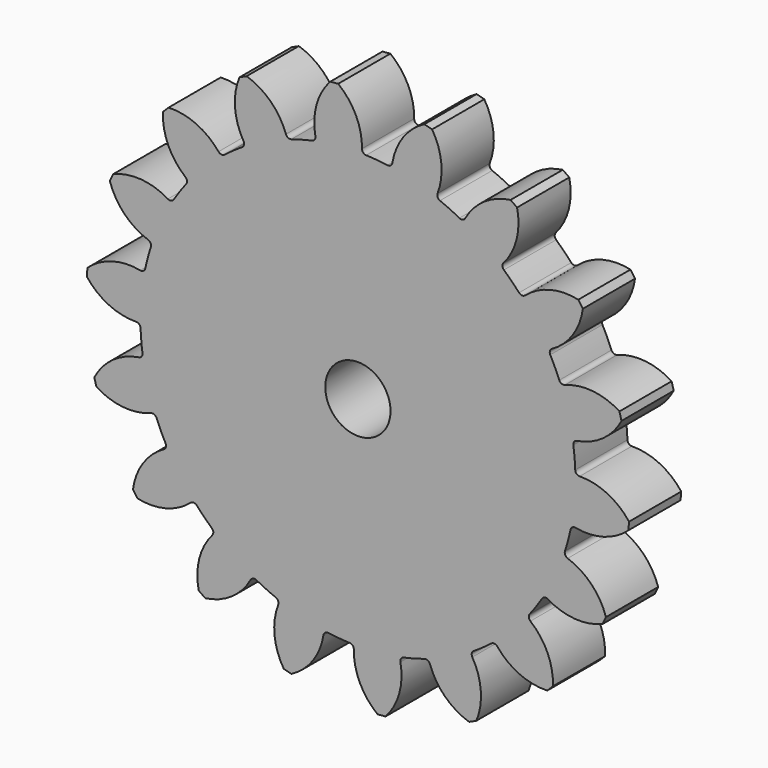
from build123d import *

# Parameters (mm, degrees)
F1_DEPTH = 3
F2_R     = 0.2
F3_COUNT = 18
F5_R     = 1.5
F6_DEPTH = 3.0010001


with BuildPart() as f1:
    # F0 (on Front) → F1 (new body)
    with BuildSketch(Plane.XZ):
        with BuildLine():
            ThreePointArc((-1.9113205495, 9.8156433186), (-6.3595123439, -7.7172924493), (10, 0))
            ThreePointArc((10, 0), (7.1336577997, 7.0079188349), (0.1778147207, 9.9984189713))
            ThreePointArc((0.1778147207, 9.9984189713), (-0.8715574275, 9.9619469809), (-1.9113205495, 9.8156433186))
        make_face()
        with BuildLine():
            ThreePointArc((-1.9113205495, 9.8156433186), (-0.8715574275, 9.9619469809), (0.1778147207, 9.9984189713))
            ThreePointArc((0.1778147207, 9.9984189713), (-0.0499038808, 11.371106639), (-0.907270256, 12.467030949))
            Line((-0.907270256, 12.467030949), (-1.271390423, 12.4351745622))
            ThreePointArc((-1.271390423, 12.4351745622), (-1.9254262172, 11.2070196964), (-1.9113205495, 9.8156433186))
        make_face()
    extrude(amount=F1_DEPTH)

    # F2
    f2_edges = [f1.edges().sort_by_distance(p)[0] for p in [
        (0.177815, -1.5, 9.998419),
        (-1.911321, -1.5, 9.815643),
    ]]
    fillet(f2_edges, radius=F2_R)


with BuildPart() as f3_1:
    # F3: instance of F1
    add(f1.part.rotate(Axis((0, 0, 0), (0, 1, 0)), 1 * 360 / F3_COUNT))


with BuildPart() as f3_2:
    # F3: instance of F1
    add(f1.part.rotate(Axis((0, 0, 0), (0, 1, 0)), 2 * 360 / F3_COUNT))


with BuildPart() as f3_3:
    # F3: instance of F1
    add(f1.part.rotate(Axis((0, 0, 0), (0, 1, 0)), 3 * 360 / F3_COUNT))


with BuildPart() as f3_4:
    # F3: instance of F1
    add(f1.part.rotate(Axis((0, 0, 0), (0, 1, 0)), 4 * 360 / F3_COUNT))


with BuildPart() as f3_5:
    # F3: instance of F1
    add(f1.part.rotate(Axis((0, 0, 0), (0, 1, 0)), 5 * 360 / F3_COUNT))


with BuildPart() as f3_6:
    # F3: instance of F1
    add(f1.part.rotate(Axis((0, 0, 0), (0, 1, 0)), 6 * 360 / F3_COUNT))


with BuildPart() as f3_7:
    # F3: instance of F1
    add(f1.part.rotate(Axis((0, 0, 0), (0, 1, 0)), 7 * 360 / F3_COUNT))


with BuildPart() as f3_8:
    # F3: instance of F1
    add(f1.part.rotate(Axis((0, 0, 0), (0, 1, 0)), 8 * 360 / F3_COUNT))


with BuildPart() as f3_9:
    # F3: instance of F1
    add(f1.part.rotate(Axis((0, 0, 0), (0, 1, 0)), 9 * 360 / F3_COUNT))


with BuildPart() as f3_10:
    # F3: instance of F1
    add(f1.part.rotate(Axis((0, 0, 0), (0, 1, 0)), 10 * 360 / F3_COUNT))


with BuildPart() as f3_11:
    # F3: instance of F1
    add(f1.part.rotate(Axis((0, 0, 0), (0, 1, 0)), 11 * 360 / F3_COUNT))


with BuildPart() as f3_12:
    # F3: instance of F1
    add(f1.part.rotate(Axis((0, 0, 0), (0, 1, 0)), 12 * 360 / F3_COUNT))


with BuildPart() as f3_13:
    # F3: instance of F1
    add(f1.part.rotate(Axis((0, 0, 0), (0, 1, 0)), 13 * 360 / F3_COUNT))


with BuildPart() as f3_14:
    # F3: instance of F1
    add(f1.part.rotate(Axis((0, 0, 0), (0, 1, 0)), 14 * 360 / F3_COUNT))


with BuildPart() as f3_15:
    # F3: instance of F1
    add(f1.part.rotate(Axis((0, 0, 0), (0, 1, 0)), 15 * 360 / F3_COUNT))


with BuildPart() as f3_16:
    # F3: instance of F1
    add(f1.part.rotate(Axis((0, 0, 0), (0, 1, 0)), 16 * 360 / F3_COUNT))


with BuildPart() as f3_17:
    # F3: instance of F1
    add(f1.part.rotate(Axis((0, 0, 0), (0, 1, 0)), 17 * 360 / F3_COUNT))


with BuildPart() as f3_4_1:
    add(f3_4.part)

    # F4: union F3_1, F3_2, F3_5, F3_3, F3_7, F3_6, F3_8, F3_10, F3_9, F3_11, F3_12, F3_13, F3_16, F3_17, F1, F3_15, F3_14
    add(f3_1.part)
    add(f3_2.part)
    add(f3_5.part)
    add(f3_3.part)
    add(f3_7.part)
    add(f3_6.part)
    add(f3_8.part)
    add(f3_10.part)
    add(f3_9.part)
    add(f3_11.part)
    add(f3_12.part)
    add(f3_13.part)
    add(f3_16.part)
    add(f3_17.part)
    add(f1.part)
    add(f3_15.part)
    add(f3_14.part)

    # F5 (on face) → F6 (cut, through all)
    with BuildSketch(Plane.XZ.offset(3)):
        Circle(F5_R)
    extrude(amount=-F6_DEPTH, mode=Mode.SUBTRACT)


solid = f3_4_1.part
